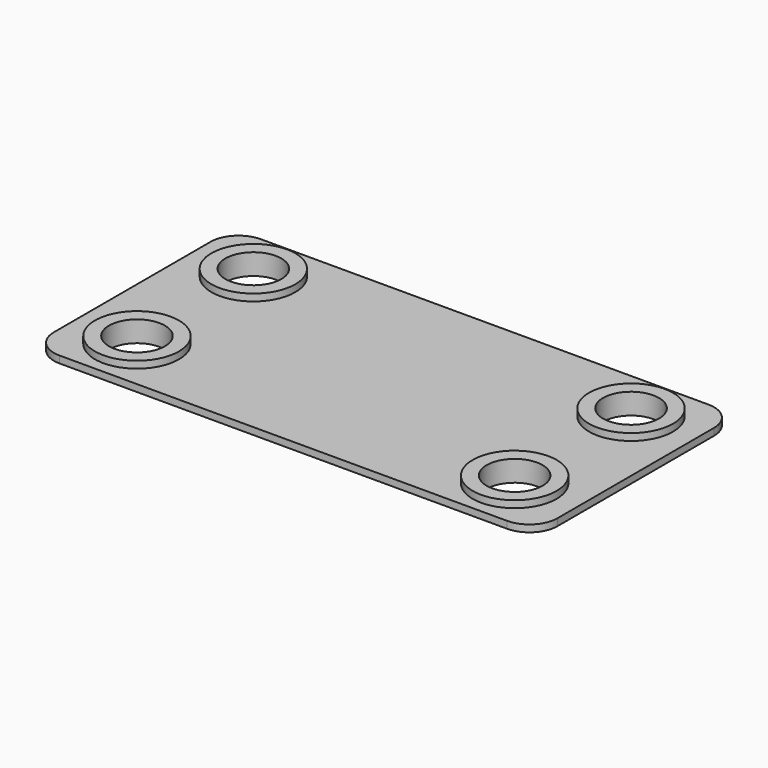
from build123d import *

# Parameters (mm, degrees)
F0_R     = 20
F1_DEPTH = 5
F2_R     = 30
F2_R_2   = 20
F3_DEPTH = 5
F4_R     = 30
F4_R_2   = 20
F5_DEPTH = 5


with BuildPart() as f1:
    # F0 (on Top) → F1 (new body)
    with BuildSketch(Plane.XY):
        with BuildLine():
            Line((-160, -90), (160, -90))
            ThreePointArc((160, -90), (174.142136, -84.142136), (180, -70))
            Line((180, -70), (180, 70))
            ThreePointArc((180, 70), (174.142136, 84.142136), (160, 90))
            Line((160, 90), (-160, 90))
            ThreePointArc((-160, 90), (-174.142136, 84.142136), (-180, 70))
            Line((-180, 70), (-180, -70))
            ThreePointArc((-180, -70), (-174.142136, -84.142136), (-160, -90))
        make_face()
        with Locations((-135, -52)):
            Circle(F0_R, mode=Mode.SUBTRACT)
        with Locations((135, -52)):
            Circle(F0_R, mode=Mode.SUBTRACT)
        with Locations((-135, 52)):
            Circle(F0_R, mode=Mode.SUBTRACT)
        with Locations((135, 52)):
            Circle(F0_R, mode=Mode.SUBTRACT)
    extrude(amount=F1_DEPTH)

    # F2 (on face) → F3 (join)
    with BuildSketch(Plane.XY.offset(5)):
        with Locations((-135, 52)):
            Circle(F2_R)
        with Locations((-135, 52)):
            Circle(F2_R_2, mode=Mode.SUBTRACT)
        with Locations((135, 52)):
            Circle(F2_R)
        with Locations((135, 52)):
            Circle(F2_R_2, mode=Mode.SUBTRACT)
        with Locations((-135, -52)):
            Circle(F2_R)
        with Locations((-135, -52)):
            Circle(F2_R_2, mode=Mode.SUBTRACT)
        with Locations((135, -52)):
            Circle(F2_R)
        with Locations((135, -52)):
            Circle(F2_R_2, mode=Mode.SUBTRACT)
    extrude(amount=F3_DEPTH)

    # F4 (on face) → F5 (join)
    with BuildSketch(Plane(origin=(0, 0, 0), x_dir=(1, 0, 0), z_dir=(0, 0, -1))):
        with Locations((-135, 52)):
            Circle(F4_R)
        with Locations((-135, 52)):
            Circle(F4_R_2, mode=Mode.SUBTRACT)
        with Locations((135, 52)):
            Circle(F4_R)
        with Locations((135, 52)):
            Circle(F4_R_2, mode=Mode.SUBTRACT)
        with Locations((-135, -52)):
            Circle(F4_R)
        with Locations((-135, -52)):
            Circle(F4_R_2, mode=Mode.SUBTRACT)
        with Locations((135, -52)):
            Circle(F4_R)
        with Locations((135, -52)):
            Circle(F4_R_2, mode=Mode.SUBTRACT)
    extrude(amount=F5_DEPTH)


solid = f1.part
